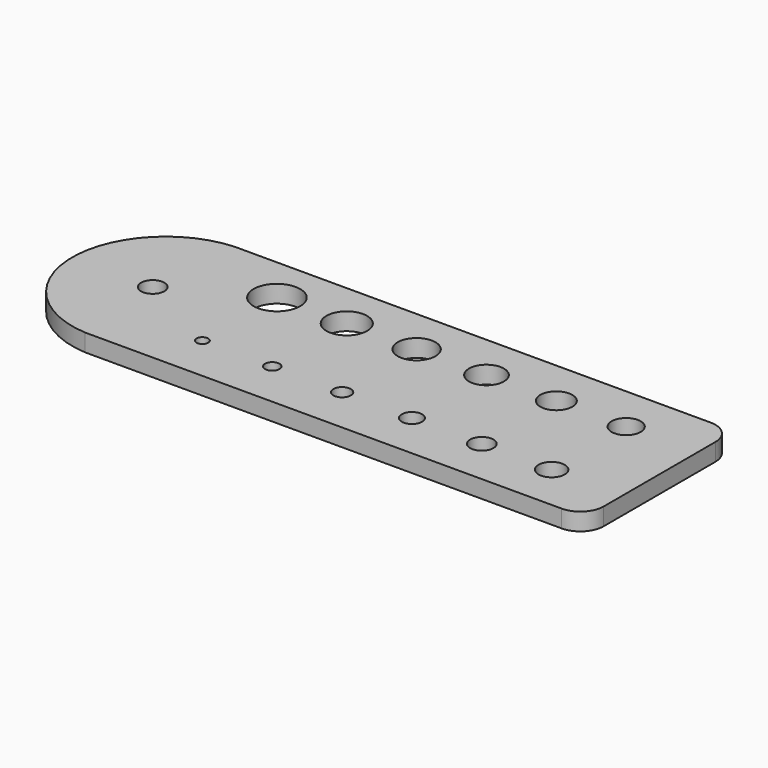
from build123d import *

# Parameters (mm, degrees)
F2_DEPTH = 4.7625
F1_R     = 6.35
F1_R_2   = 1.5875
F1_R_3   = 3.175
F1_R_4   = 5.55625
F1_R_5   = 5.159375
F1_R_6   = 4.7625
F1_R_7   = 4.365625
F1_R_8   = 3.96875
F1_R_9   = 3.571875
F1_R_10  = 2.778125
F1_R_11  = 2.38125
F1_R_12  = 1.984375
F3_DEPTH = 35.56


with BuildPart() as f2:
    # F0 (on Top) → F2 (new body)
    with BuildSketch(Plane.XY):
        with BuildLine():
            Line((83.220267, 40.4495), (-46.799858, 40.4495))
            ThreePointArc((-46.799858, 40.4495), (-70.588232, 15.0495), (-46.799858, -10.3505))
            Line((-46.799858, -10.3505), (83.220267, -10.3505))
            ThreePointArc((83.220267, -10.3505), (87.710395, -8.490628), (89.570267, -4.0005))
            Line((89.570267, -4.0005), (89.570267, 34.0995))
            ThreePointArc((89.570267, 34.0995), (87.710395, 38.589628), (83.220267, 40.4495))
        make_face()
    extrude(amount=F2_DEPTH)

    # F1 (on face) → F3 (cut)
    with BuildSketch(Plane.XY):
        with Locations((-24.940642, 27.7495)):
            Circle(F1_R)
        with Locations((-24.940642, 2.3495)):
            Circle(F1_R_2)
        with Locations((-48.657889, 15.0495)):
            Circle(F1_R_3)
        with Locations((-5.890642, 27.7495)):
            Circle(F1_R_4)
        with Locations((13.159358, 27.7495)):
            Circle(F1_R_5)
        with Locations((32.209358, 27.7495)):
            Circle(F1_R_6)
        with Locations((51.259358, 27.7495)):
            Circle(F1_R_7)
        with Locations((70.309358, 27.7495)):
            Circle(F1_R_8)
        with Locations((70.309358, 2.3495)):
            Circle(F1_R_9)
        with Locations((51.259358, 2.3495)):
            Circle(F1_R_3)
        with Locations((32.209358, 2.3495)):
            Circle(F1_R_10)
        with Locations((13.159358, 2.3495)):
            Circle(F1_R_11)
        with Locations((-5.890642, 2.3495)):
            Circle(F1_R_12)
    extrude(amount=F3_DEPTH, mode=Mode.SUBTRACT)


solid = f2.part
